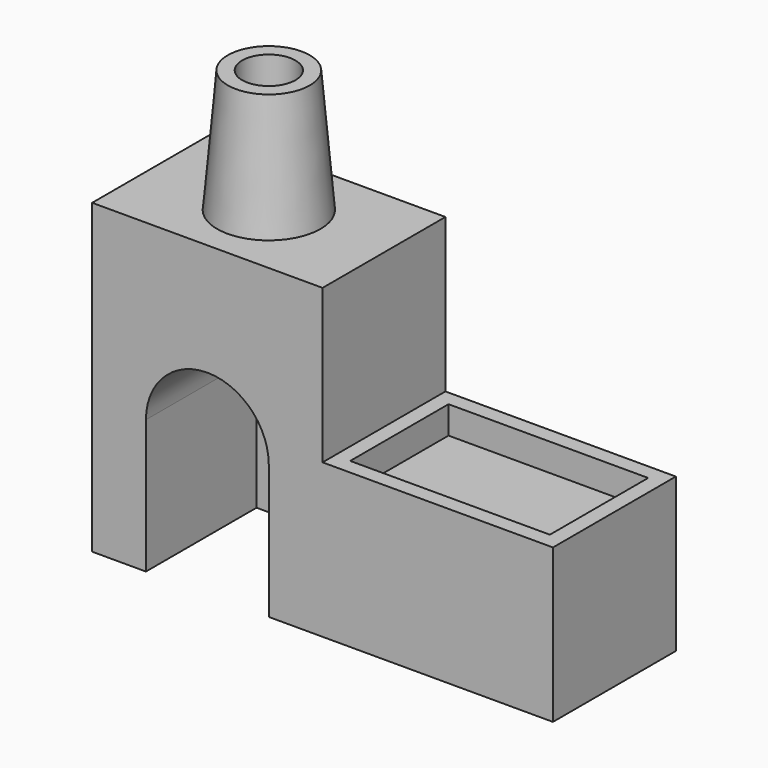
from build123d import *

# Parameters (mm, degrees)
F0_W      = 3000
F0_H      = 1000
F1_DEPTH  = 1000
F2_W      = 1500
F2_H      = 1000
F3_DEPTH  = 1000
F5_DEPTH  = 900
F6_W      = 1300
F6_H      = 800
F7_DEPTH  = 180
F8_R      = 336.5785790594
F9_DEPTH  = 800
F9_TAPER  = 5
F10_R     = 173.6727180738
F11_DEPTH = 2800.001


with BuildPart() as f1:
    # F0 (on Top) → F1 (new body)
    with BuildSketch(Plane.XY):
        Rectangle(F0_W, F0_H)
    extrude(amount=F1_DEPTH)

    # F2 (on face) → F3 (join)
    with BuildSketch(Plane.XY.offset(1000)):
        with Locations((-750, 0)):
            Rectangle(F2_W, F2_H)
    extrude(amount=F3_DEPTH)

    # F4 (on face) → F5 (cut)
    with BuildSketch(Plane.XZ.offset(500)):
        with BuildLine():
            Line((-1150, 870.2293634415), (-1150, 0))
            Line((-1150, 0), (-350, 0))
            Line((-350, 0), (-350, 870.2293634415))
            ThreePointArc((-350, 870.2293634415), (-750, 1270.2293634415), (-1150, 870.2293634415))
        make_face()
    extrude(amount=-F5_DEPTH, mode=Mode.SUBTRACT)

    # F6 (on face) → F7 (cut)
    with BuildSketch(Plane.XY.offset(1000)):
        with Locations((750, 0)):
            Rectangle(F6_W, F6_H)
    extrude(amount=-F7_DEPTH, mode=Mode.SUBTRACT)

    # F8 (on face) → F9 (join)
    with BuildSketch(Plane.XY.offset(2000)):
        with Locations((-750, 0)):
            Circle(F8_R)
    extrude(amount=F9_DEPTH, taper=F9_TAPER)

    # F10 (on face) → F11 (cut, through all)
    with BuildSketch(Plane.XY.offset(2800)):
        with Locations((-750, 0)):
            Circle(F10_R)
    extrude(amount=-F11_DEPTH, mode=Mode.SUBTRACT)


solid = f1.part
